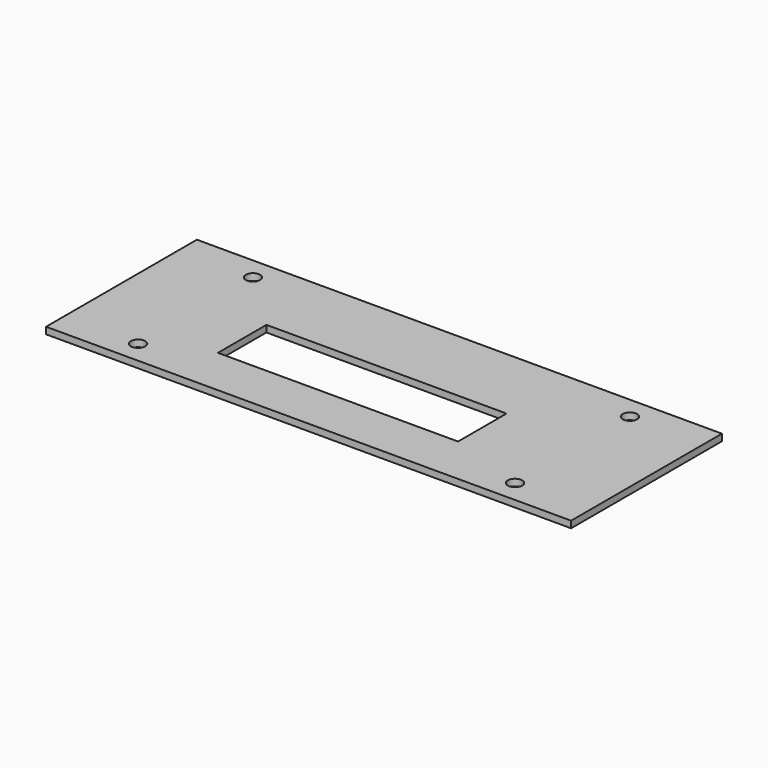
from build123d import *

# Parameters (mm, degrees)
F0_W     = 117
F0_H     = 42
F0_R     = 1.6
F0_W_2   = 53.5
F0_H_2   = 13.5
F1_DEPTH = 1.5


with BuildPart() as f1:
    # F0 (on Top) → F1 (new body)
    with BuildSketch(Plane.XY):
        Rectangle(F0_W, F0_H)
        with Locations((-42, -16)):
            Circle(F0_R, mode=Mode.SUBTRACT)
        with Locations((-2.25, -3.25)):
            Rectangle(F0_W_2, F0_H_2, mode=Mode.SUBTRACT)
        with Locations((42, -16)):
            Circle(F0_R, mode=Mode.SUBTRACT)
        with Locations((-42, 16)):
            Circle(F0_R, mode=Mode.SUBTRACT)
        with Locations((42, 16)):
            Circle(F0_R, mode=Mode.SUBTRACT)
    extrude(amount=-F1_DEPTH)


solid = f1.part
